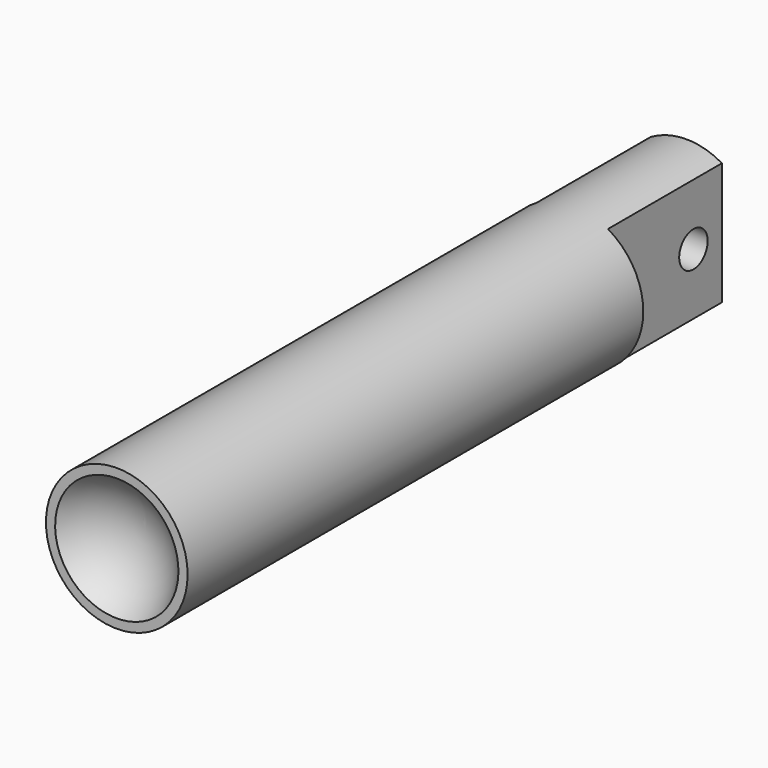
from build123d import *

# Parameters (mm, degrees)
F0_R          = 12.6365
F1_DEPTH      = 127
F4_W          = 27.8319140774
F4_H          = 51.0702148064
F4_W_2        = 25.1297878391
F4_H_2        = 45.1477855428
F5_DEPTH      = 12.6375
F5_DEPTH_BACK = 25.4
F6_R          = 3.175
F7_DEPTH      = 12.6375
F7_DEPTH_BACK = 25.4


with BuildPart() as f1:
    # F0 (on Front) → F1 (new body)
    with BuildSketch(Plane.XZ):
        Circle(F0_R)
    extrude(amount=F1_DEPTH)

    # F2 (on Right) → F3 (revolve, cut)
    with BuildSketch(Plane.YZ):
        with BuildLine():
            Line((-133.35, 0), (-120.65, 0))
            ThreePointArc((-120.65, 0), (-124.3697438789, 8.9802561211), (-133.35, 12.7))
            Line((-133.35, 12.7), (-133.35, 0))
        make_face()
    revolve(axis=Axis((0, -127, 0), (0, 1, 0)), mode=Mode.SUBTRACT)

    # F4 (on Top) → F5 (cut, two sides)
    with BuildSketch(Plane.XY) as f5_sk:
        with Locations((-20.2659570387, 0.1351074032)):
            Rectangle(F4_W, F4_H)
        with Locations((18.9148939196, -2.8261072286)):
            Rectangle(F4_W_2, F4_H_2)
    extrude(amount=-F5_DEPTH, mode=Mode.SUBTRACT)
    extrude(f5_sk.sketch, amount=F5_DEPTH_BACK, mode=Mode.SUBTRACT)

    # F6 (on Right) → F7 (cut, two sides)
    with BuildSketch(Plane.YZ) as f7_sk:
        with Locations((-6.35, 0)):
            Circle(F6_R)
    extrude(amount=-F7_DEPTH, mode=Mode.SUBTRACT)
    extrude(f7_sk.sketch, amount=F7_DEPTH_BACK, mode=Mode.SUBTRACT)


solid = f1.part
